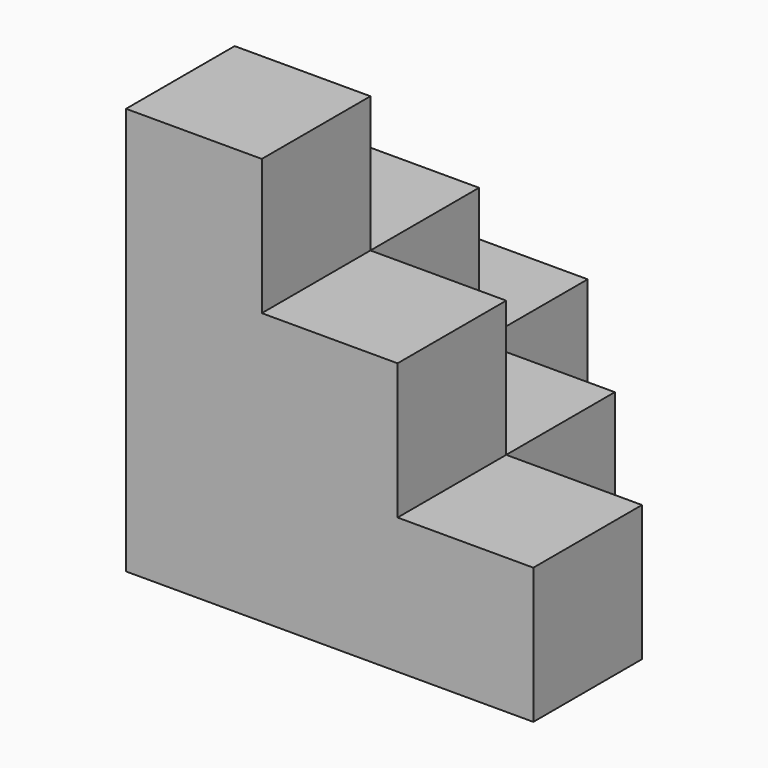
from build123d import *

# Parameters (mm, degrees)
BOX004_W     = 10
BOX004_H     = 20
BOX004_DEPTH = 10
BOX003_W     = 10
BOX003_H     = 10
BOX003_DEPTH = 10
BOX002_W     = 10
BOX002_H     = 10
BOX002_DEPTH = 10
BOX001_W     = 20
BOX001_H     = 10
BOX001_DEPTH = 10
BOX_W        = 10
BOX_H        = 10
BOX_DEPTH    = 30
BOX005_W     = 10
BOX005_H     = 10
BOX005_DEPTH = 10


with BuildPart() as cub004:
    # Box004 → Box004 (new body)
    with BuildSketch(Plane(origin=(0, 10, 0), x_dir=(1, 0, 0), z_dir=(0, 0, 1))):
        with Locations((5, 10)):
            Rectangle(BOX004_W, BOX004_H)
    extrude(amount=BOX004_DEPTH)


with BuildPart() as cub003:
    # Box003 → Box003 (new body)
    with BuildSketch(Plane(origin=(0, 10, 10), x_dir=(1, 0, 0), z_dir=(0, 0, 1))):
        with Locations((5, 5)):
            Rectangle(BOX003_W, BOX003_H)
    extrude(amount=BOX003_DEPTH)


with BuildPart() as cub002:
    # Box002 → Box002 (new body)
    with BuildSketch(Plane(origin=(10, 0, 10), x_dir=(1, 0, 0), z_dir=(0, 0, 1))):
        with Locations((5, 5)):
            Rectangle(BOX002_W, BOX002_H)
    extrude(amount=BOX002_DEPTH)


with BuildPart() as cub001:
    # Box001 → Box001 (new body)
    with BuildSketch(Plane(origin=(10, 0, 0), x_dir=(1, 0, 0), z_dir=(0, 0, 1))):
        with Locations((10, 5)):
            Rectangle(BOX001_W, BOX001_H)
    extrude(amount=BOX001_DEPTH)


with BuildPart() as cub:
    # Box → Box (new body)
    with BuildSketch(Plane.XY):
        with Locations((5, 5)):
            Rectangle(BOX_W, BOX_H)
    extrude(amount=BOX_DEPTH)


with BuildPart() as fusion:
    # Box005 → Box005 (new body)
    with BuildSketch(Plane(origin=(10, 10, 0), x_dir=(1, 0, 0), z_dir=(0, 0, 1))):
        with Locations((5, 5)):
            Rectangle(BOX005_W, BOX005_H)
    extrude(amount=BOX005_DEPTH)

    # Fusion: union Cub004, Cub003, Cub002, Cub001, Cub
    add(cub004.part)
    add(cub003.part)
    add(cub002.part)
    add(cub001.part)
    add(cub.part)


solid = fusion.part
